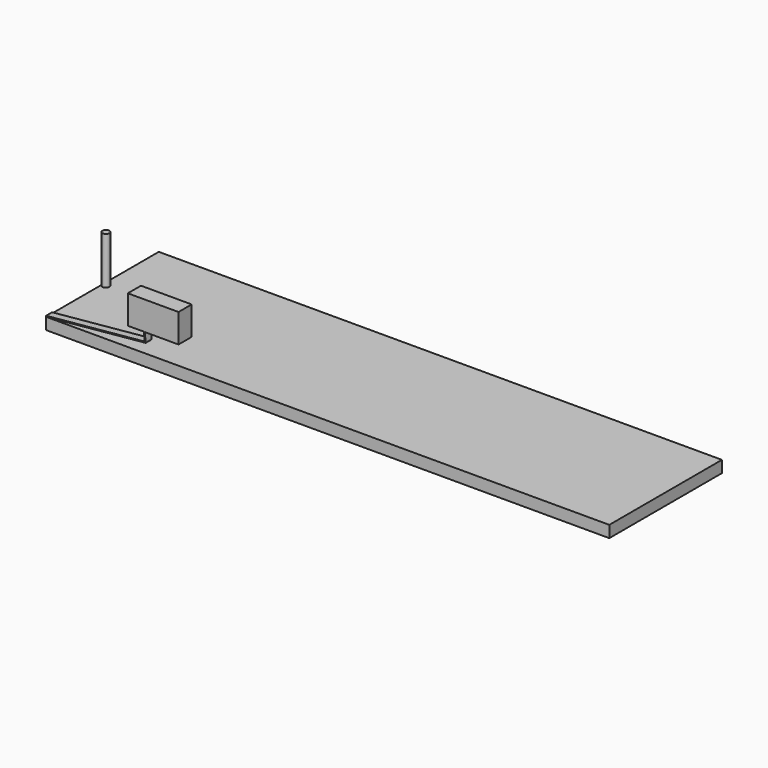
from build123d import *

# Parameters (mm, degrees)
F0_W     = 304.8
F0_H     = 76.2
F1_DEPTH = 6.35
F3_DEPTH = 4.064
F5_DEPTH = 4.064
F6_W     = 27.432
F6_H     = 15.494
F7_DEPTH = 4.826
F9_DEPTH = 25.59558


with BuildPart() as f1:
    # F0 (on Top) → F1 (new body)
    with BuildSketch(Plane.XY):
        with Locations((152.4, 38.1)):
            Rectangle(F0_W, F0_H)
    extrude(amount=F1_DEPTH)

    # F8 (on face) → F9 (join)
    with BuildSketch(Plane.XY.offset(6.35)):
        with BuildLine():
            ThreePointArc((0, 38.1), (1.893576, 36.206424), (3.787152, 38.1))
            ThreePointArc((3.787152, 38.1), (1.893576, 39.993576), (0, 38.1))
        make_face()
    extrude(amount=F9_DEPTH)


with BuildPart() as f3:
    # F2 (on face) → F3 (new body)
    with BuildSketch(Plane.XZ):
        Polygon((-0.047807, 6.855745), (0, 6.35), (53.861893, 11.441448), (53.351629, 11.441448), (53.308341, 11.899386), align=None)
        Polygon((53.351629, 11.441448), (53.861893, 11.441448), (53.814086, 11.947193), (53.308341, 11.899386), align=None)
        Polygon((53.308341, 11.899386), (53.814086, 11.947193), (53.383823, 16.498903), (52.878078, 16.451096), align=None)
    extrude(amount=-F3_DEPTH)

    # F4 (on face) → F5 (join)
    with BuildSketch(Plane(origin=(0, 4.064, 0), x_dir=(-1, 0, 0), z_dir=(0, 1, 0))):
        Polygon((-71.635251, 16.451096), (-53.388342, 16.451096), (-53.383823, 16.498903), (-44.203251, 16.451096), (-44.203251, 31.945096), (-71.635251, 31.945096), align=None)
    extrude(amount=-F5_DEPTH)

    # F6 (on face) → F7 (join)
    with BuildSketch(Plane(origin=(0, 4.064, 0), x_dir=(-1, 0, 0), z_dir=(0, 1, 0))):
        with Locations((-57.919251, 24.198096)):
            Rectangle(F6_W, F6_H)
    extrude(amount=F7_DEPTH)


solid = Compound([f1.part, f3.part])
